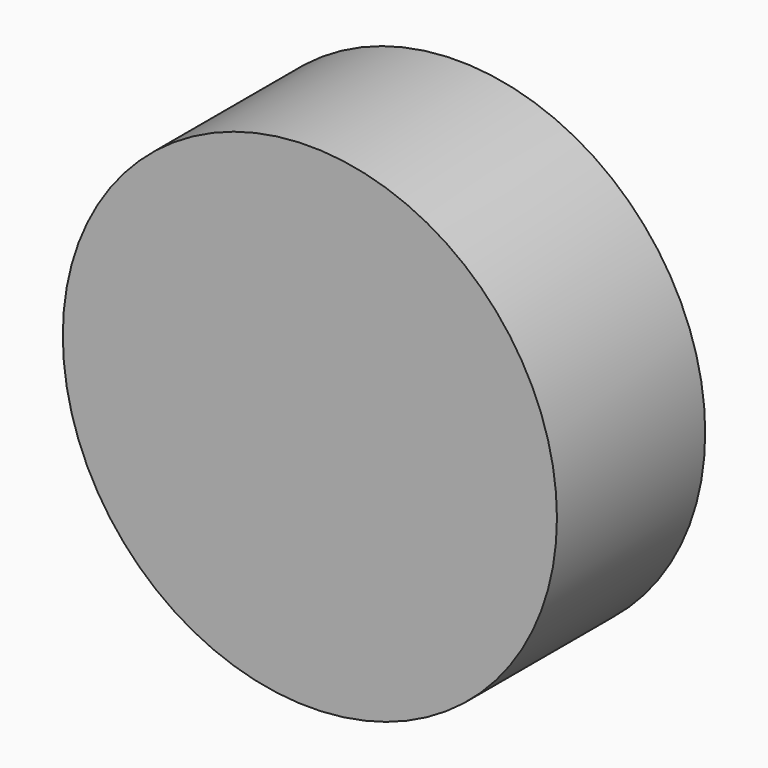
from build123d import *

# Parameters (mm, degrees)
F0_R     = 5.08
F1_DEPTH = 3.81
F2_W     = 2.1238556986
F2_H     = 1.27
F2_W_2   = 1.27
F2_H_2   = 2.1238556986
F3_DEPTH = 1.27


with BuildPart() as f1:
    # F0 (on Front) → F1 (new body)
    with BuildSketch(Plane.XZ):
        Circle(F0_R)
    extrude(amount=F1_DEPTH)

    # F2 (on Front) → F3 (cut)
    with BuildSketch(Plane.XZ):
        with Locations((-1.6969278493, 0)):
            Rectangle(F2_W, F2_H)
        Rectangle(F2_W_2, F2_H)
        with Locations((0, 1.6969278493)):
            Rectangle(F2_W_2, F2_H_2)
        with Locations((1.6969278493, 0)):
            Rectangle(F2_W, F2_H)
        with Locations((0, -1.6969278493)):
            Rectangle(F2_W_2, F2_H_2)
    extrude(amount=F3_DEPTH, mode=Mode.SUBTRACT)


solid = f1.part
